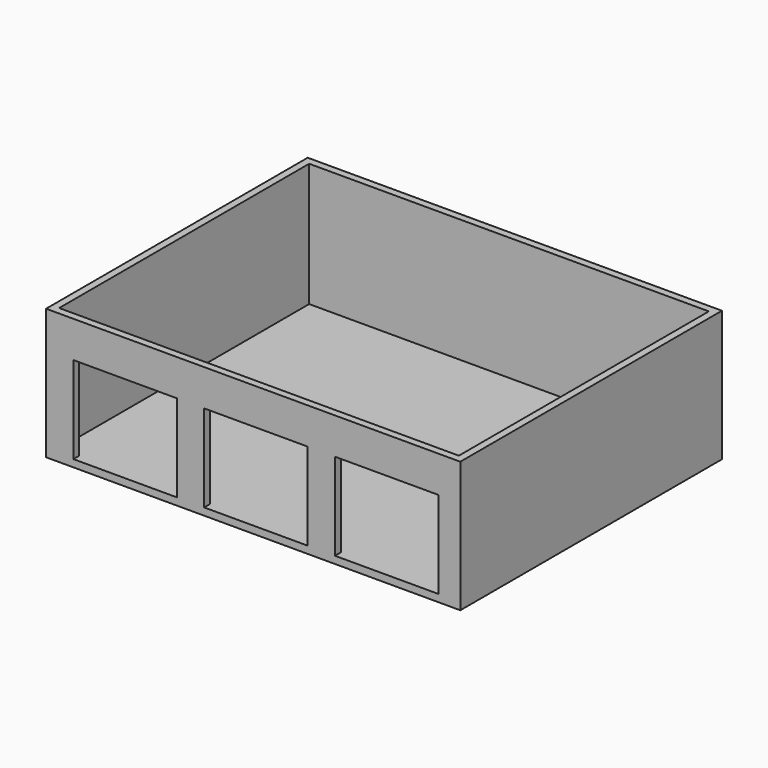
from build123d import *

# Parameters (mm, degrees)
F0_W     = 11582.4
F0_H     = 9144
F1_DEPTH = 3657.6
F2_T     = -203.2
F3_W     = 2895.6
F3_H     = 2438.4
F4_DEPTH = 203.2


with BuildPart() as f1:
    # F0 (on Top) → F1 (new body)
    with BuildSketch(Plane.XY):
        with Locations((5791.2, -4572)):
            Rectangle(F0_W, F0_H)
    extrude(amount=F1_DEPTH)

    # F2
    f2_openings = [f1.faces().sort_by_distance(p)[0] for p in [
        (5791.2, -4572, 3657.6),
    ]]
    offset(amount=F2_T, openings=f2_openings)

    # F3 (on face) → F4 (cut, through all)
    with BuildSketch(Plane.XZ.offset(9144)):
        with Locations((2209.8, 1422.4)):
            Rectangle(F3_W, F3_H)
        with Locations((5867.4, 1422.4)):
            Rectangle(F3_W, F3_H)
        with Locations((9525, 1422.4)):
            Rectangle(F3_W, F3_H)
    extrude(amount=-F4_DEPTH, mode=Mode.SUBTRACT)


solid = f1.part
